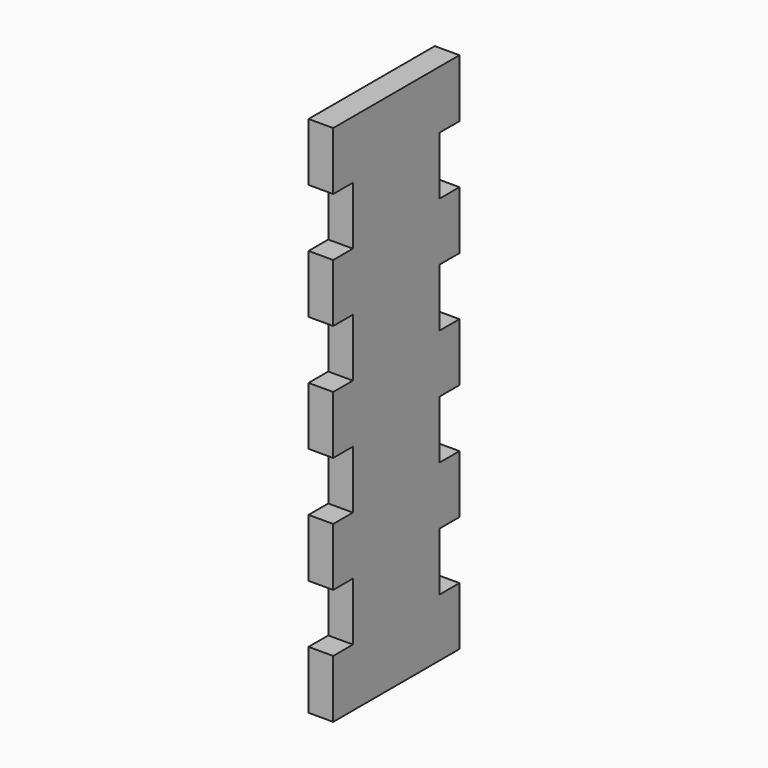
from build123d import *

# Parameters (mm, degrees)
F1_DEPTH = 3.175


with BuildPart() as f1:
    # F0 (on Right) → F1 (new body)
    with BuildSketch(Plane.YZ):
        Polygon((-66.040002, 59.831111), (-86.360002, 59.831111), (-86.360002, 52.352222), (-83.185002, 52.352222), (-83.185002, 44.873333), (-86.360002, 44.873333), (-86.360002, 37.394444), (-83.185002, 37.394444), (-83.185002, 29.915556), (-86.360002, 29.915556), (-86.360002, 22.436667), (-83.185002, 22.436667), (-83.185002, 14.957778), (-86.360002, 14.957778), (-86.360002, 7.478889), (-83.185002, 7.478889), (-83.185002, 0), (-86.360002, 0), (-86.360002, -7.478889), (-66.040002, -7.478889), (-66.040002, 0), (-69.215002, 0), (-69.215002, 7.478889), (-66.040002, 7.478889), (-66.040002, 14.957778), (-69.215002, 14.957778), (-69.215002, 22.436667), (-66.040002, 22.436667), (-66.040002, 29.915556), (-69.215002, 29.915556), (-69.215002, 37.394444), (-66.040002, 37.394444), (-66.040002, 44.873333), (-69.215002, 44.873333), (-69.215002, 52.352222), (-66.040002, 52.352222), align=None)
    extrude(amount=F1_DEPTH)


solid = f1.part
